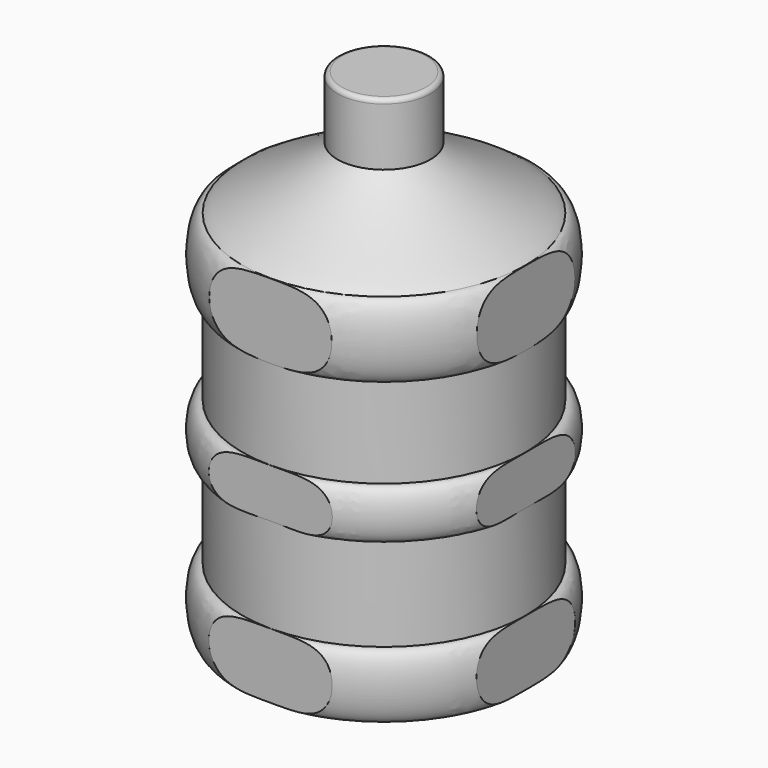
from build123d import *

# Parameters (mm, degrees)
F2_R      = 1
F3_W      = 14.2458474522
F3_H      = 91.641197466
F4_DEPTH  = 25
F5_W      = 21.4126502832
F5_H      = 90.8847696725
F6_DEPTH  = 25
F7_W      = 21.650558741
F7_H      = 100.1635648694
F8_DEPTH  = 25
F9_W      = 20.1611795124
F9_H      = 95.1794976019
F10_DEPTH = 25


with BuildPart() as f1:
    # F0 (on Front) → F1 (revolve)
    with BuildSketch(Plane.XZ):
        with BuildLine():
            add(Edge.make_bspline(
                [(-31.9613497704, 0), (-35.4619696736, 0), (-36.2527631223, 14.9455470964), (-31.9613497704, 14.7345875504)],
                knots=[0, 0, 0, 0, 14.7345875504, 14.7345875504, 14.7345875504, 14.7345875504], degree=3))
            Line((-31.9613497704, 0), (0, 0))
            Line((0, 0), (0, 112.3984674631))
            Line((0, 112.3984674631), (-10.4893890131, 112.3984674631))
            Line((-10.4893890131, 112.3984674631), (-10.4893890131, 98.3504676299))
            add(Edge.make_bspline(
                [(-31.9613497704, 84.3161666707), (-30.4200351238, 86.0399976373), (-14.2255663018, 93.4946198962), (-10.4893890131, 98.3504676299)],
                knots=[0, 0, 0, 0, 25.6516413154, 25.6516413154, 25.6516413154, 25.6516413154], degree=3))
            add(Edge.make_bspline(
                [(-31.9613497704, 67.3982918251), (-35.8205512166, 68.8502937555), (-35.823661834, 83.7114974856), (-31.9613497704, 84.3161666707)],
                knots=[0, 0, 0, 0, 16.9178748456, 16.9178748456, 16.9178748456, 16.9178748456], degree=3))
            Line((-31.9613497704, 67.3982918251), (-31.9613497704, 47.1653044224))
            add(Edge.make_bspline(
                [(-31.9613497704, 36.1269712448), (-35.8833312243, 34.9869987502), (-35.8833312243, 47.7832631558), (-31.9613497704, 47.1653044224)],
                knots=[0, 0, 0, 0, 11.0383331776, 11.0383331776, 11.0383331776, 11.0383331776], degree=3))
            Line((-31.9613497704, 36.1269712448), (-31.9613497704, 14.7345875504))
        make_face()
    revolve(axis=Axis((0, 0, 56.1992337315), (0, 0, 1)))

    # F2
    f2_edges = [f1.edges().sort_by_distance(p)[0] for p in [
        (10.489389, 0, 112.398467),
    ]]
    fillet(f2_edges, radius=F2_R)

    # F3 (on Right) → F4 (cut, symmetric)
    with BuildSketch(Plane.YZ):
        with Locations((-39.1229237261, 40.1117336005)):
            Rectangle(F3_W, F3_H)
    extrude(amount=F4_DEPTH, both=True, mode=Mode.SUBTRACT)

    # F5 (on Right) → F6 (cut, symmetric)
    with BuildSketch(Plane.YZ):
        with Locations((42.7063251416, 43.2342488784)):
            Rectangle(F5_W, F5_H)
    extrude(amount=F6_DEPTH, both=True, mode=Mode.SUBTRACT)

    # F7 (on Front) → F8 (cut, symmetric)
    with BuildSketch(Plane.XZ):
        with Locations((-42.8252793705, 40.1826282032)):
            Rectangle(F7_W, F7_H)
    extrude(amount=F8_DEPTH, both=True, mode=Mode.SUBTRACT)

    # F9 (on Front) → F10 (cut, symmetric)
    with BuildSketch(Plane.XZ):
        with Locations((42.0805897562, 44.6990255732)):
            Rectangle(F9_W, F9_H)
    extrude(amount=F10_DEPTH, both=True, mode=Mode.SUBTRACT)


solid = f1.part
